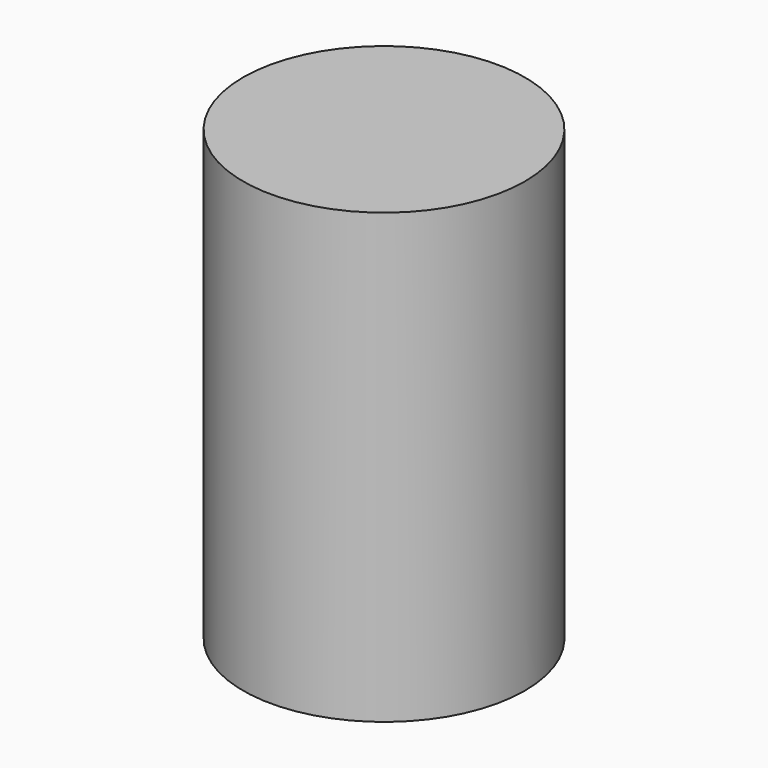
from build123d import *

# Parameters (mm, degrees)
F0_R     = 55
F2_DEPTH = 175
F1_R     = 50
F3_DEPTH = 155


with BuildPart() as f2:
    # F0 (on Top) → F2 (new body)
    with BuildSketch(Plane.XY):
        Circle(F0_R)
    extrude(amount=F2_DEPTH)

    # F1 (on face) → F3 (cut)
    with BuildSketch(Plane.XY):
        Circle(F1_R)
    extrude(amount=F3_DEPTH, mode=Mode.SUBTRACT)


solid = f2.part
